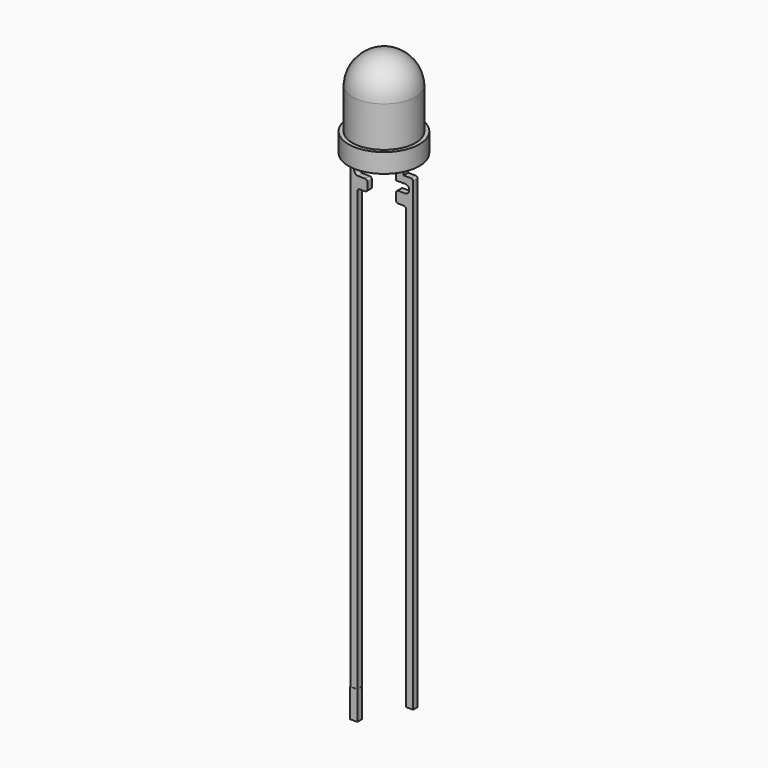
from build123d import *

# Parameters (mm, degrees)
F3_W     = 0.371745
F3_H     = 1.5
F4_DEPTH = 0.15


with BuildPart() as f1:
    # F0 (on Front) → F1 (revolve)
    with BuildSketch(Plane.XZ):
        with BuildLine():
            Line((-1.648842, 0.5), (0, 0.5))
            Line((0, 0.5), (0, 2.55))
            Line((0, 2.55), (0, 4.2))
            ThreePointArc((0, 4.2), (-1.144669, 3.738374), (-1.648842, 2.611796))
            Line((-1.648842, 2.611796), (-1.648842, 2.488204))
            Line((-1.648842, 2.488204), (-1.648842, 0.5))
        make_face()
        Polygon((0, -0.5), (0, 0.5), (-1.648842, 0.5), (-1.848842, 0.5), (-1.848842, -0.5), align=None)
    revolve(axis=Axis((0, 0, 1.025), (0, 0, 1)))


with BuildPart() as f4:
    # F2 (on Front) + F3 (on Front) → F4 (new body, symmetric)
    with BuildSketch(Plane.XZ):
        with BuildLine():
            Line((-0.75, -1.460087), (-0.75, -0.704625))
            Line((-0.75, -0.704625), (-0.75, 0.635594))
            ThreePointArc((-0.75, 0.635594), (-0.688168, 0.734374), (-0.60034, 0.810969))
            Line((-0.60034, 0.810969), (0.103245, 1.132647))
            Line((0.103245, 1.132647), (0.140148, 1.149519))
            ThreePointArc((0.140148, 1.149519), (0.177577, 1.182436), (0.202635, 1.225523))
            Line((0.202635, 1.225523), (0.202635, 1.494675))
            Line((0.202635, 1.494675), (-0.22623, 1.494675))
            Line((-0.22623, 1.494675), (-0.22623, 1.411355))
            ThreePointArc((-0.22623, 1.411355), (-0.225445, 1.398164), (-0.22623, 1.384974))
            ThreePointArc((-0.22623, 1.384974), (-0.239526, 1.344025), (-0.267388, 1.311203))
            Line((-0.267388, 1.311203), (-1.030934, 0.998929))
            ThreePointArc((-1.030934, 0.998929), (-1.100048, 0.929572), (-1.135138, 0.838162))
            Line((-1.135138, 0.838162), (-1.135138, 0.720012))
            Line((-1.135138, 0.720012), (-1.135138, -0.704453))
            Line((-1.135138, -0.704453), (-1.135138, -1.1))
            Line((-1.135138, -1.1), (-1.531367, -1.1))
            ThreePointArc((-1.531367, -1.1), (-1.605412, -1.131273), (-1.638779, -1.204399))
            Line((-1.638779, -1.204399), (-1.638779, -25.483301))
            Line((-1.638779, -25.483301), (-1.268454, -25.483301))
            Line((-1.268454, -25.483301), (-1.268454, -2.591864))
            ThreePointArc((-1.268454, -2.591864), (-1.228704, -2.51582), (-1.149299, -2.483301))
            Line((-1.149299, -2.483301), (-0.852642, -2.483301))
            ThreePointArc((-0.852642, -2.483301), (-0.788318, -2.451641), (-0.751982, -2.389837))
            Line((-0.751982, -2.389837), (-0.751982, -1.993851))
            ThreePointArc((-0.751982, -1.993851), (-0.787456, -1.931633), (-0.851269, -1.899115))
            Line((-0.851269, -1.899115), (-1.229661, -1.899115))
            ThreePointArc((-1.229661, -1.899115), (-1.43892, -1.683681), (-1.238404, -1.460087))
            Line((-1.238404, -1.460087), (-0.75, -1.460087))
        make_face()
        with BuildLine():
            Line((0.140148, 1.149519), (0.103245, 1.132647))
            ThreePointArc((0.103245, 1.132647), (0.122251, 1.139871), (0.140148, 1.149519))
        make_face()
        with BuildLine():
            ThreePointArc((-0.22623, 1.384974), (-0.225445, 1.398164), (-0.22623, 1.411355))
            Line((-0.22623, 1.411355), (-0.22623, 1.384974))
        make_face()
        Polygon((0.75, -1.460087), (1.135138, -1.1), (1.135138, -0.704453), (1.135138, 0.738441), (0.75, 0.745239), (0.75, -0.704625), align=None)
        with BuildLine():
            Line((1.531367, -1.1), (1.135138, -1.1))
            Line((1.135138, -1.1), (0.75, -1.460087))
            Line((0.75, -1.460087), (1.238404, -1.460087))
            ThreePointArc((1.238404, -1.460087), (1.43892, -1.683681), (1.229661, -1.899115))
            Line((1.229661, -1.899115), (0.851269, -1.899115))
            ThreePointArc((0.851269, -1.899115), (0.787456, -1.931633), (0.751982, -1.993851))
            Line((0.751982, -1.993851), (0.751982, -2.389837))
            ThreePointArc((0.751982, -2.389837), (0.788318, -2.451641), (0.852642, -2.483301))
            Line((0.852642, -2.483301), (1.149299, -2.483301))
            ThreePointArc((1.149299, -2.483301), (1.228704, -2.51582), (1.268454, -2.591864))
            Line((1.268454, -2.591864), (1.268454, -25.483301))
            Line((1.268454, -25.483301), (1.638779, -25.483301))
            Line((1.638779, -25.483301), (1.638779, -1.204399))
            ThreePointArc((1.638779, -1.204399), (1.605412, -1.131273), (1.531367, -1.1))
        make_face()
        with BuildLine():
            Line((0.75, 0.745239), (1.135138, 0.738441))
            Line((1.135138, 0.738441), (1.135138, 0.986436))
            Line((1.135138, 0.986436), (1.135138, 1.057741))
            ThreePointArc((1.135138, 1.057741), (0.934724, 1.544548), (0.470409, 1.792657))
            Line((0.470409, 1.792657), (0.300103, 1.792657))
            Line((0.300103, 1.792657), (0.300103, 1.591918))
            ThreePointArc((0.300103, 1.591918), (0.606439, 1.388126), (0.742402, 1.046239))
            ThreePointArc((0.742402, 1.046239), (0.743982, 1.01502), (0.743979, 0.983762))
            Line((0.743979, 0.983762), (0.75, 0.745239))
        make_face()
        with BuildLine():
            Line((1.135138, 1.057741), (1.135138, 0.986436))
            ThreePointArc((1.135138, 0.986436), (1.135954, 1.022089), (1.135138, 1.057741))
        make_face()
        with BuildLine():
            Line((0.742402, 1.046239), (0.743979, 0.983762))
            ThreePointArc((0.743979, 0.983762), (0.743982, 1.01502), (0.742402, 1.046239))
        make_face()
    with BuildSketch(Plane.XZ):
        with Locations((-1.455553, -26.23841)):
            Rectangle(F3_W, F3_H)
    extrude(amount=F4_DEPTH, both=True)


solid = Compound([f1.part, f4.part])
